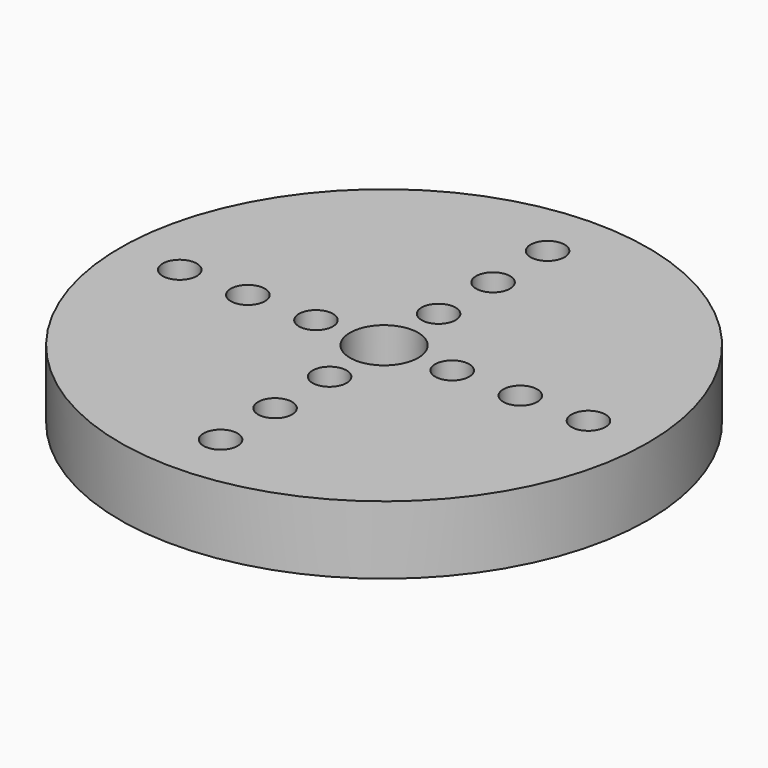
from build123d import *

# Parameters (mm, degrees)
F0_R     = 31
F0_R_2   = 2
F0_R_3   = 4
F1_DEPTH = 8


with BuildPart() as f1:
    # F0 (on Top) → F1 (new body)
    with BuildSketch(Plane.XY):
        Circle(F0_R)
        with Locations((0, -24)):
            Circle(F0_R_2, mode=Mode.SUBTRACT)
        with Locations((0, -16)):
            Circle(F0_R_2, mode=Mode.SUBTRACT)
        with Locations((0, -8)):
            Circle(F0_R_2, mode=Mode.SUBTRACT)
        with Locations((-24, 0)):
            Circle(F0_R_2, mode=Mode.SUBTRACT)
        with Locations((-16, 0)):
            Circle(F0_R_2, mode=Mode.SUBTRACT)
        with Locations((-8, 0)):
            Circle(F0_R_2, mode=Mode.SUBTRACT)
        Circle(F0_R_3, mode=Mode.SUBTRACT)
        with Locations((8, 0)):
            Circle(F0_R_2, mode=Mode.SUBTRACT)
        with Locations((0, 8)):
            Circle(F0_R_2, mode=Mode.SUBTRACT)
        with Locations((16, 0)):
            Circle(F0_R_2, mode=Mode.SUBTRACT)
        with Locations((24, 0)):
            Circle(F0_R_2, mode=Mode.SUBTRACT)
        with Locations((0, 16)):
            Circle(F0_R_2, mode=Mode.SUBTRACT)
        with Locations((0, 24)):
            Circle(F0_R_2, mode=Mode.SUBTRACT)
    extrude(amount=F1_DEPTH)


solid = f1.part
